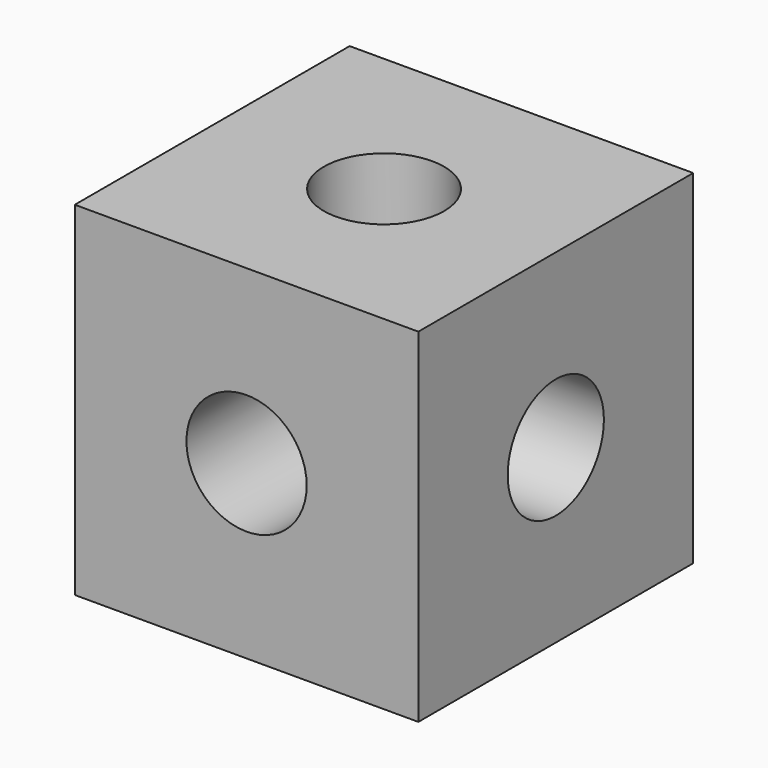
from build123d import *

# Parameters (mm, degrees)
F0_W     = 100
F0_H     = 100
F0_R     = 17.5
F1_DEPTH = 50
F2_R     = 17.5
F3_DEPTH = 100
F4_R     = 17.5
F5_DEPTH = 100


with BuildPart() as f1:
    # F0 (on Front) → F1 (new body, symmetric)
    with BuildSketch(Plane.XZ):
        Rectangle(F0_W, F0_H)
        Circle(F0_R, mode=Mode.SUBTRACT)
    extrude(amount=F1_DEPTH, both=True)

    # F2 (on face) → F3 (cut, through all)
    with BuildSketch(Plane.YZ.offset(50)):
        Circle(F2_R)
    extrude(amount=-F3_DEPTH, mode=Mode.SUBTRACT)

    # F4 (on face) → F5 (cut, through all)
    with BuildSketch(Plane.XY.offset(50)):
        Circle(F4_R)
    extrude(amount=-F5_DEPTH, mode=Mode.SUBTRACT)


solid = f1.part
